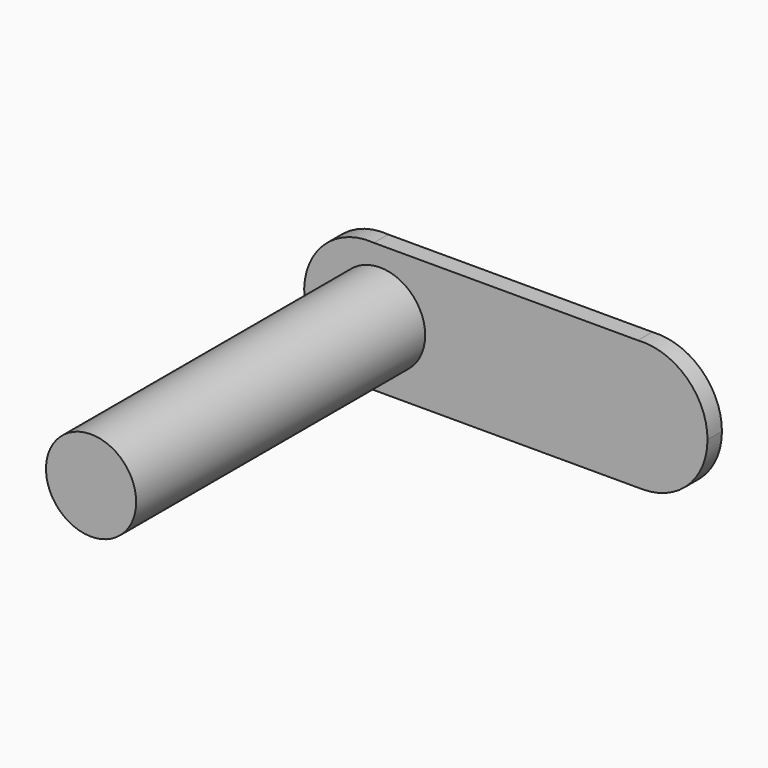
from build123d import *

# Parameters (mm, degrees)
F1_DEPTH = 6.35
F2_R     = 15.875
F3_DEPTH = 133.583397


with BuildPart() as f1:
    # F0 (on Front) → F1 (new body)
    with BuildSketch(Plane.XZ):
        with BuildLine():
            ThreePointArc((-48.273578, -22.86), (-32.109117, -16.164461), (-25.413578, 0))
            ThreePointArc((-25.413578, 0), (-31.528976, 15.562709), (-46.603247, 22.798895))
            ThreePointArc((-46.603247, 22.798895), (-71.118296, 0.835724), (-48.273578, -22.86))
        make_face()
        with BuildLine():
            ThreePointArc((-46.603247, 22.798895), (-31.528976, 15.562709), (-25.413578, 0))
            ThreePointArc((-25.413578, 0), (-32.109117, -16.164461), (-48.273578, -22.86))
            Line((-48.273578, -22.86), (48.058062, -22.86))
            ThreePointArc((48.058062, -22.86), (25.213343, -0.835724), (46.387732, 22.798895))
            Line((46.387732, 22.798895), (-46.603247, 22.798895))
        make_face()
        with BuildLine():
            ThreePointArc((70.918062, 0), (63.620771, 16.744601), (46.387732, 22.798895))
            ThreePointArc((46.387732, 22.798895), (25.213343, -0.835724), (48.058062, -22.86))
            ThreePointArc((48.058062, -22.86), (64.222523, -16.164461), (70.918062, 0))
        make_face()
    extrude(amount=F1_DEPTH)

    # F2 (on Front) → F3 (join)
    with BuildSketch(Plane.XZ):
        with Locations((-44.391442, 0)):
            Circle(F2_R)
    extrude(amount=F3_DEPTH)


solid = f1.part
